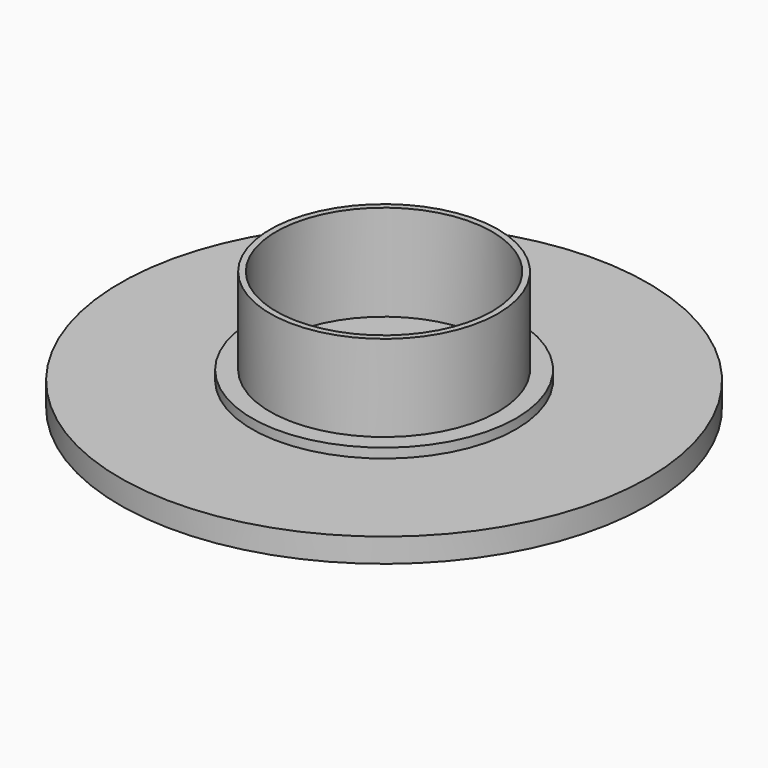
from build123d import *

# Parameters (mm, degrees)
F0_R     = 11
F0_R_2   = 5.5
F1_DEPTH = 1
F0_R_3   = 4.75
F0_R_4   = 4.5
F2_DEPTH = 1.4
F3_DEPTH = 5
F4_DEPTH = 1


with BuildPart() as f1:
    # F0 (on Top) → F1 (new body)
    with BuildSketch(Plane.XY):
        Circle(F0_R)
        Circle(F0_R_2, mode=Mode.SUBTRACT)
    extrude(amount=F1_DEPTH)

    # F0 (on Top) → F2 (join)
    with BuildSketch(Plane.XY):
        Circle(F0_R_2)
        Circle(F0_R_3, mode=Mode.SUBTRACT)
        Circle(F0_R_3)
        Circle(F0_R_4, mode=Mode.SUBTRACT)
    extrude(amount=F2_DEPTH)

    # F0 (on Top) → F3 (join)
    with BuildSketch(Plane.XY):
        Circle(F0_R_3)
        Circle(F0_R_4, mode=Mode.SUBTRACT)
    extrude(amount=F3_DEPTH)

    # F0 (on Top) → F4 (join)
    with BuildSketch(Plane.XY):
        Circle(F0_R_4)
    extrude(amount=F4_DEPTH)


solid = f1.part
